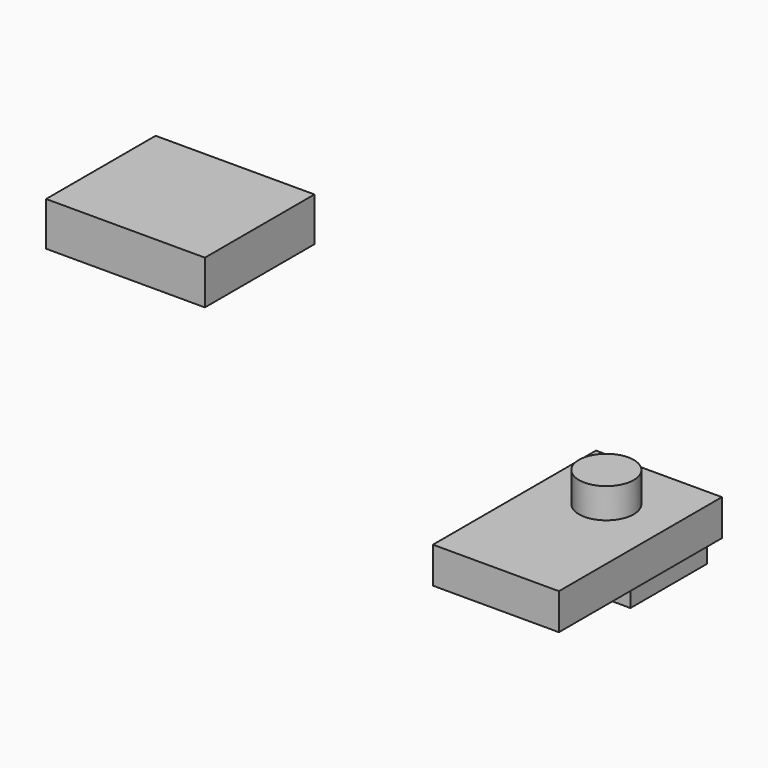
from build123d import *

# Parameters (mm, degrees)
F0_W     = 58.42
F0_H     = 94.488
F0_R     = 12.7
F1_DEPTH = 16.764
F2_DEPTH = 13.97
F3_W     = 50.8
F3_H     = 44.45
F4_DEPTH = 10.16
F5_W     = 73.66
F5_H     = 63.5
F6_DEPTH = 20.32


with BuildPart() as f1:
    # F0 (on Top) → F1 (new body)
    with BuildSketch(Plane.XY):
        with Locations((29.21, -47.244)):
            Rectangle(F0_W, F0_H)
        with Locations((29.21, -30.48)):
            Circle(F0_R, mode=Mode.SUBTRACT)
        with Locations((29.21, -30.48)):
            Circle(F0_R)
    extrude(amount=-F1_DEPTH)

    # F0 (on Top) → F2 (join)
    with BuildSketch(Plane.XY):
        with Locations((29.21, -30.48)):
            Circle(F0_R)
    extrude(amount=F2_DEPTH)

    # F3 (on face) → F4 (join)
    with BuildSketch(Plane(origin=(0, 0, -16.764), x_dir=(1, 0, 0), z_dir=(0, 0, -1))):
        with Locations((29.21, 26.035)):
            Rectangle(F3_W, F3_H)
    extrude(amount=F4_DEPTH)


with BuildPart() as f6:
    # F5 (on Top) → F6 (new body)
    with BuildSketch(Plane.XY):
        with Locations((-241.9087812304, 61.4245978671)):
            Rectangle(F5_W, F5_H)
    extrude(amount=-F6_DEPTH)


solid = Compound([f1.part, f6.part])
